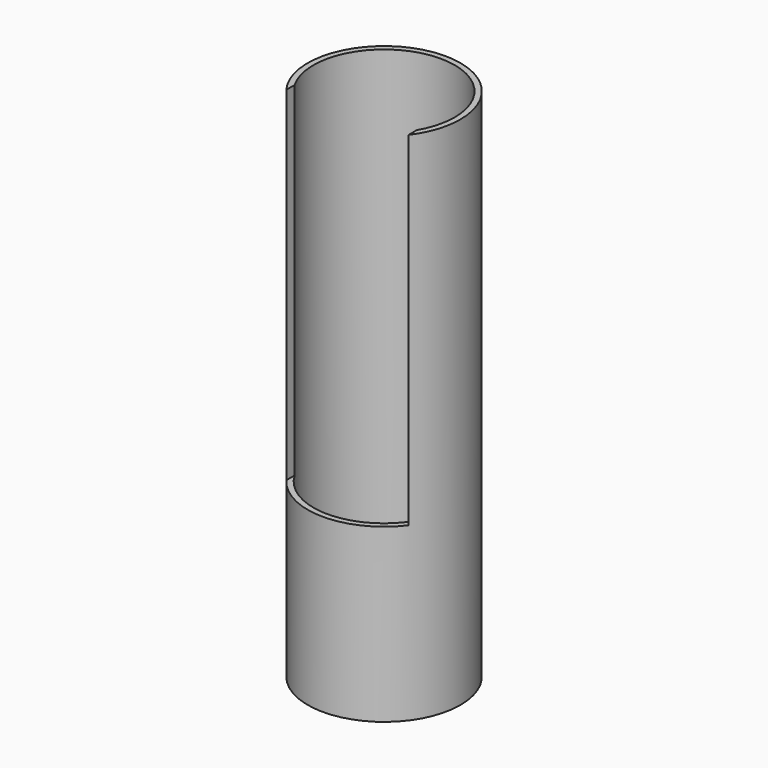
from build123d import *

# Parameters (mm, degrees)
F0_R     = 40
F0_R_2   = 37
F1_DEPTH = 270
F3_DEPTH = 180


with BuildPart() as f1:
    # F0 (on Top) → F1 (new body)
    with BuildSketch(Plane.XY):
        with Locations((0, 2.371988)):
            Circle(F0_R)
        with Locations((0, 2.371988)):
            Circle(F0_R_2, mode=Mode.SUBTRACT)
    extrude(amount=F1_DEPTH)

    # F2 (on face) → F3 (cut)
    with BuildSketch(Plane.XY.offset(270)):
        Polygon((32, 0), (0, 0), (-32, 0), (-32, -84.363654), (0, -84.363654), (32, -84.363654), align=None)
    extrude(amount=-F3_DEPTH, mode=Mode.SUBTRACT)


solid = f1.part
